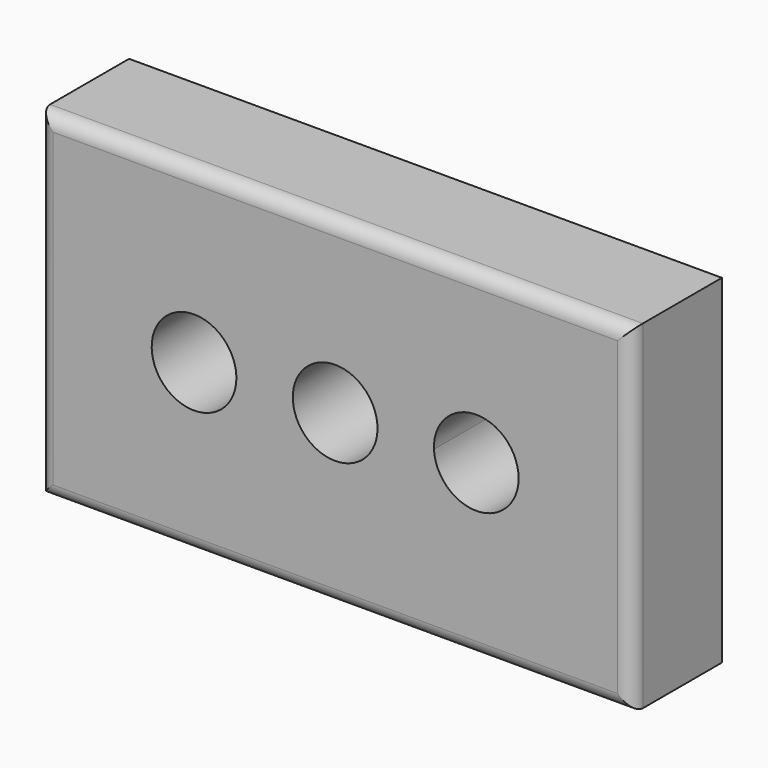
from build123d import *

# Parameters (mm, degrees)
F0_W     = 105
F0_H     = 60
F1_DEPTH = 20
F2_R     = 2.5


with BuildPart() as f1:
    # F0 (on Front) → F1 (new body)
    with BuildSketch(Plane.XZ):
        Rectangle(F0_W, F0_H)
        with BuildLine():
            ThreePointArc((-17.495224, -0.267622), (-32.49403, -0.401454), (-17.5, 0))
            ThreePointArc((-17.5, 0), (-17.496418, -0.13379), (-17.495224, -0.267622))
        make_face(mode=Mode.SUBTRACT)
        with BuildLine():
            ThreePointArc((-7.5, 0), (0, 7.5), (7.5, 0))
            ThreePointArc((7.5, 0), (0, -7.5), (-7.5, 0))
        make_face(mode=Mode.SUBTRACT)
        with BuildLine():
            ThreePointArc((32.49182, 0.350196), (25.166965, -7.147759), (17.5, 0))
            ThreePointArc((17.5, 0), (24.816674, 7.84815), (32.49182, 0.350196))
        make_face(mode=Mode.SUBTRACT)
    extrude(amount=F1_DEPTH)

    # F2
    f2_edges = [f1.edges().sort_by_distance(p)[0] for p in [
        (-52.5, -20, 0),
        (0, -20, 30),
        (52.5, -20, 0),
        (0, -20, -30),
    ]]
    fillet(f2_edges, radius=F2_R)


solid = f1.part
